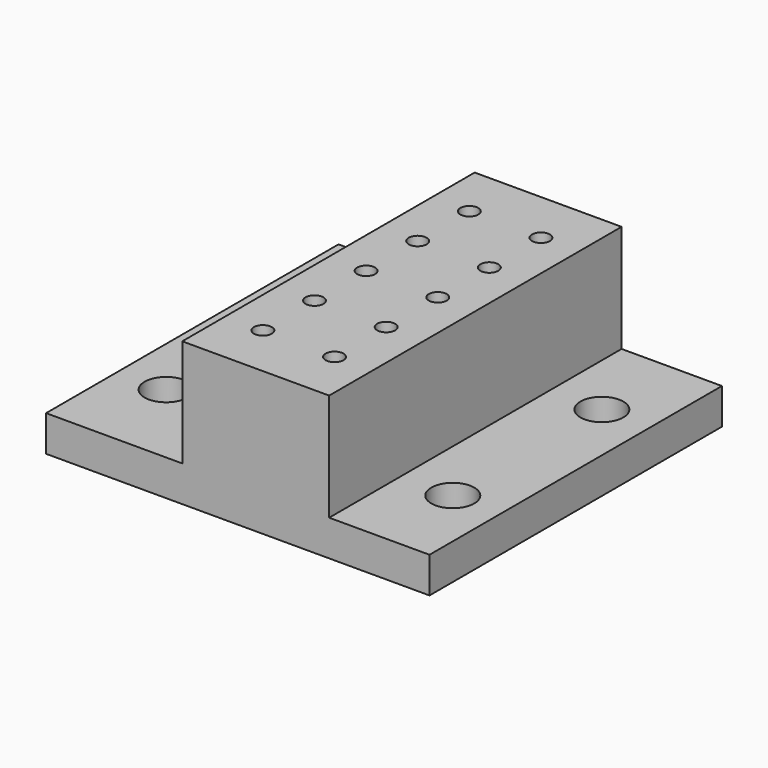
from build123d import *

# Parameters (mm, degrees)
F0_W     = 107
F0_H     = 102
F1_DEPTH = 40
F2_W     = 38
F2_H     = 102
F2_W_2   = 28
F3_DEPTH = 30
F5_D     = 8
F5_DEPTH = 20
F5_TIP   = 2.4034424761
F7_D     = 5
F9_D     = 12


with BuildPart() as f1:
    # F0 (on Top) → F1 (new body)
    with BuildSketch(Plane.XY):
        Rectangle(F0_W, F0_H)
    extrude(amount=F1_DEPTH)

    # F2 (on face) → F3 (cut)
    with BuildSketch(Plane.XY.offset(40)):
        with Locations((-34.5, 0)):
            Rectangle(F2_W, F2_H)
        with Locations((39.5, 0)):
            Rectangle(F2_W_2, F2_H)
    extrude(amount=-F3_DEPTH, mode=Mode.SUBTRACT)

    # F5
    with Locations(Plane(origin=(0, 0, 0), x_dir=(1, 0, 0), z_dir=(0, 0, -1))):
        with Locations((-5, -18), (-5, -36), (15, -36), (15, -18), (-5, 0), (15, 0), (15, 18), (-5, 18), (-5, 36), (15, 36)):
            Hole(F5_D / 2, depth=F5_DEPTH)
            with Locations((0, 0, -(F5_DEPTH + F5_TIP / 2))):  # 118° drill point
                Cone(0, F5_D / 2, F5_TIP, mode=Mode.SUBTRACT)

    # F7 (through all)
    with Locations(Plane.XY.offset(40)):
        with Locations((-5, -36), (15, -36), (-5, -18), (15, -18), (-5, 0), (15, 0), (-5, 18), (15, 18), (-5, 36), (15, 36)):
            Hole(F7_D / 2)

    # F9 (through all)
    with Locations(Plane(origin=(0, 0, 0), x_dir=(1, 0, 0), z_dir=(0, 0, -1))):
        with Locations((-40, 26), (-40, -26), (40, -26), (40, 26)):
            Hole(F9_D / 2)


solid = f1.part
